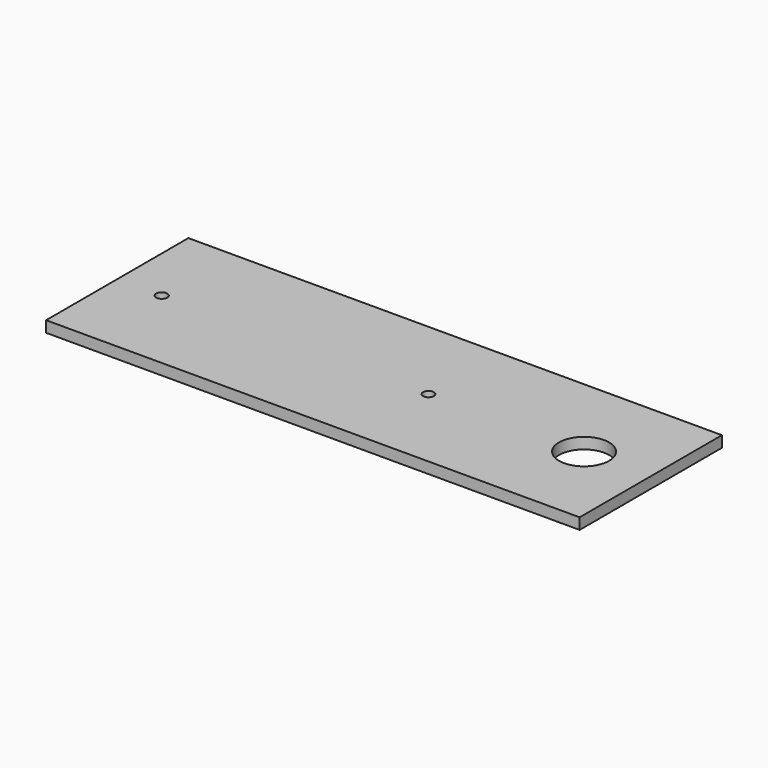
from build123d import *

# Parameters (mm, degrees)
F0_W     = 304.8
F0_H     = 101.6
F1_DEPTH = 6.35
F2_R     = 3.175
F3_DEPTH = 6.35
F4_R     = 14.2875
F5_DEPTH = 6.35
F6_R     = 3.0861
F7_DEPTH = 6.35


with BuildPart() as f1:
    # F0 (on Top) → F1 (new body)
    with BuildSketch(Plane.XY):
        with Locations((79.710026, -8.171286)):
            Rectangle(F0_W, F0_H)
    extrude(amount=F1_DEPTH)

    # F2 (on face) → F3 (cut)
    with BuildSketch(Plane.XY.offset(6.35)):
        with Locations((-47.289974, -8.171286)):
            Circle(F2_R)
    extrude(amount=-F3_DEPTH, mode=Mode.SUBTRACT)

    # F4 (on face) → F5 (cut)
    with BuildSketch(Plane.XY.offset(6.35)):
        with Locations((194.010026, -8.171286)):
            Circle(F4_R)
    extrude(amount=-F5_DEPTH, mode=Mode.SUBTRACT)

    # F6 (on face) → F7 (cut)
    with BuildSketch(Plane.XY.offset(6.35)):
        with Locations((105.110026, -8.171286)):
            Circle(F6_R)
    extrude(amount=-F7_DEPTH, mode=Mode.SUBTRACT)


solid = f1.part
